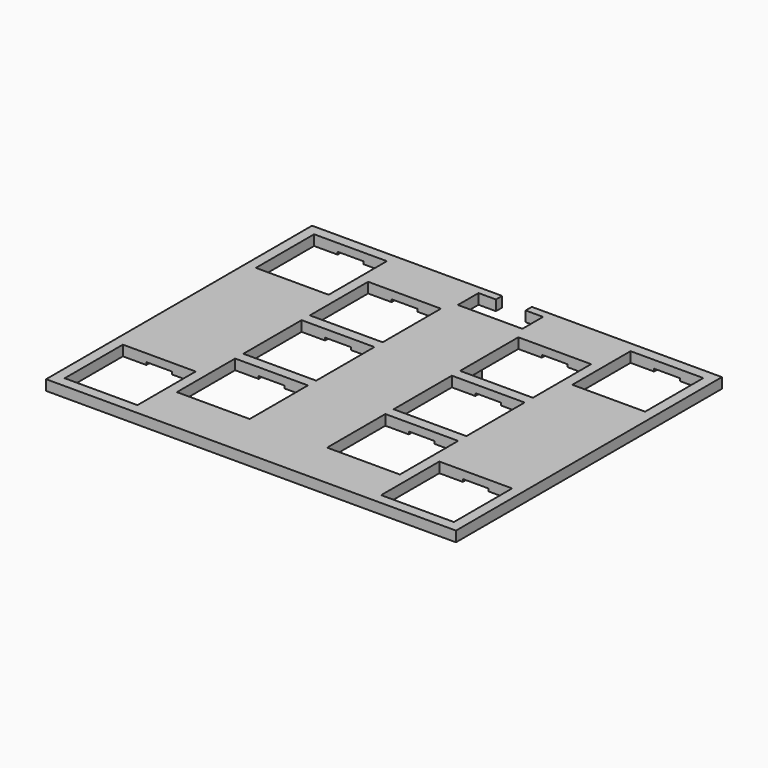
from build123d import *

# Parameters (mm, degrees)
SKETCH020_W     = 14.1
SKETCH020_H     = 14.1
PAD014_DEPTH    = 2
SKETCH_W        = 14
SKETCH_H        = 2
PAD_DEPTH       = 1.9
SKETCH028_W     = 5
SKETCH028_H     = 0.8
POCKET004_DEPTH = 0.5


with BuildPart() as part:
    # Sketch020 → Pad014 (new body)
    with BuildSketch(Plane.XY):
        Polygon((39.7, 32.2), (39.7, -32.2), (-39.7, -32.2), (-39.7, 32.2), (-2.875, 32.2), (-2.875, 30.7), (-6.25, 30.7), (-6.25, 25.7), (6.25, 25.7), (6.25, 30.7), (2.875, 30.7), (2.875, 32.2), align=None)
        with Locations((-14.55, 16.1)):
            Rectangle(SKETCH020_W, SKETCH020_H, mode=Mode.SUBTRACT)
        with Locations((-14.55, 0)):
            Rectangle(SKETCH020_W, SKETCH020_H, mode=Mode.SUBTRACT)
        with Locations((-14.55, -16.1)):
            Rectangle(SKETCH020_W, SKETCH020_H, mode=Mode.SUBTRACT)
        with Locations((-30.65, -23.15)):
            Rectangle(SKETCH020_W, SKETCH020_H, mode=Mode.SUBTRACT)
        with Locations((-30.65, 23.15)):
            Rectangle(SKETCH020_W, SKETCH020_H, mode=Mode.SUBTRACT)
        with Locations((14.55, 16.1)):
            Rectangle(SKETCH020_W, SKETCH020_H, mode=Mode.SUBTRACT)
        with Locations((14.55, 0)):
            Rectangle(SKETCH020_W, SKETCH020_H, mode=Mode.SUBTRACT)
        with Locations((14.55, -16.1)):
            Rectangle(SKETCH020_W, SKETCH020_H, mode=Mode.SUBTRACT)
        with Locations((30.65, -23.15)):
            Rectangle(SKETCH020_W, SKETCH020_H, mode=Mode.SUBTRACT)
        with Locations((30.65, 23.15)):
            Rectangle(SKETCH020_W, SKETCH020_H, mode=Mode.SUBTRACT)
    extrude(amount=PAD014_DEPTH)

    # Sketch (on Face53 of Pad014) → Pad (join)
    with BuildSketch(Plane(origin=(0, 0, 0), x_dir=(1, 0, 0), z_dir=(0, 0, -1))):
        with Locations((0, -14)):
            Rectangle(SKETCH_W, SKETCH_H)
    extrude(amount=PAD_DEPTH)

    # Sketch028 (on Face4 of Pad) → Pocket004 (cut)
    with BuildSketch(Plane(origin=(0, 0, 0), x_dir=(1, 0, 0), z_dir=(0, 0, -1))):
        with Locations((-14.55, 7.45)):
            Rectangle(SKETCH028_W, SKETCH028_H)
        with Locations((-14.55, 8.65)):
            Rectangle(SKETCH028_W, SKETCH028_H)
        with Locations((-14.55, 23.55)):
            Rectangle(SKETCH028_W, SKETCH028_H)
        with Locations((-30.65, 30.6)):
            Rectangle(SKETCH028_W, SKETCH028_H)
        with Locations((-30.65, 15.7)):
            Rectangle(SKETCH028_W, SKETCH028_H)
        with Locations((-14.55, -7.45)):
            Rectangle(SKETCH028_W, SKETCH028_H)
        with Locations((-14.55, -8.65)):
            Rectangle(SKETCH028_W, SKETCH028_H)
        with Locations((-14.55, -23.55)):
            Rectangle(SKETCH028_W, SKETCH028_H)
        with Locations((-30.65, -30.6)):
            Rectangle(SKETCH028_W, SKETCH028_H)
        with Locations((-30.65, -15.7)):
            Rectangle(SKETCH028_W, SKETCH028_H)
    pocket004 = extrude(amount=-POCKET004_DEPTH, mode=Mode.SUBTRACT)

    # Mirrored: Pocket004 across Sketch028 V_Axis
    add(pocket004.mirror(Plane(origin=(0, 0, 0), x_dir=(0, 0, -1), z_dir=(1, 0, 0))), mode=Mode.SUBTRACT)


with BuildPart() as part_1:
    # Body005 placement: moved
    add(part.part.moved(Location((0, 0, -13.7))))


solid = part_1.part
